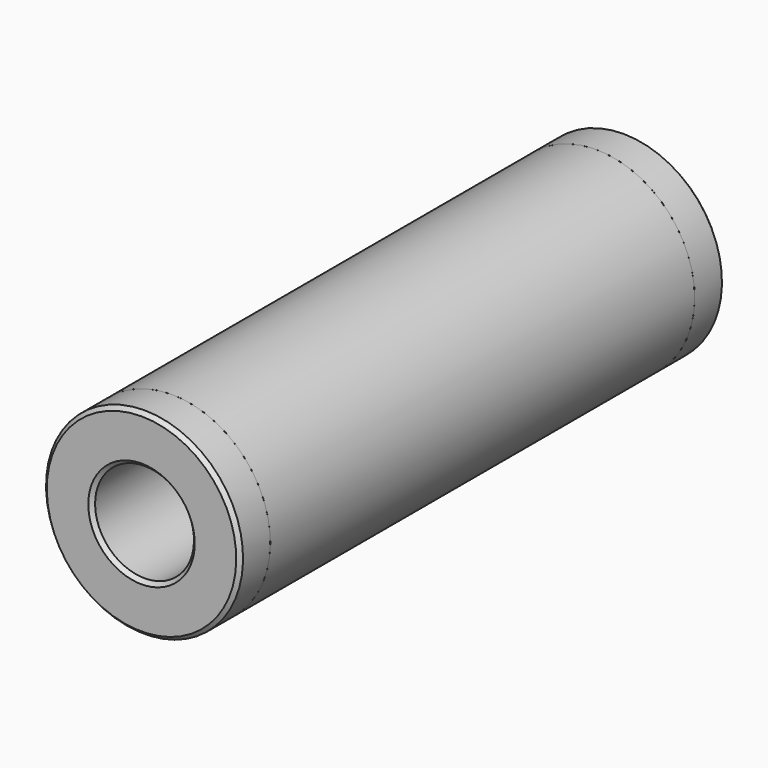
from build123d import *

# Parameters (mm, degrees)
F0_R      = 13
F0_R_2    = 9.5
F1_DEPTH  = 35
F6_SIZE   = 0.5
F6_2_SIZE = 0.5


with BuildPart() as f1:
    # F0 (on Front) → F1 (new body, symmetric)
    with BuildSketch(Plane.XZ):
        Circle(F0_R)
        Circle(F0_R_2, mode=Mode.SUBTRACT)
    extrude(amount=F1_DEPTH, both=True)


with BuildPart() as f3:
    # F2 (on Right) → F3 (revolve)
    with BuildSketch(Plane.YZ):
        Polygon((-40, 6.525), (-15, 6.525), (-15, 9.5), (-35, 9.5), (-35, 13), (-40, 13), align=None)
    revolve(axis=Axis((0, -23.343612, 0), (0, -1, 0)))

    # F6#2
    f6_2_edges = [f3.edges().sort_by_distance(p)[0] for p in [
        (0, -40, -13),
        (0, -40, -6.525),
    ]]
    chamfer(f6_2_edges, length=F6_2_SIZE)


with BuildPart() as f5:
    # F4 (on Right) → F5 (revolve)
    with BuildSketch(Plane.YZ):
        Polygon((35, 9.51), (20, 9.51), (20, 6.65), (40, 6.65), (40, 13), (35, 13), align=None)
    revolve(axis=Axis((0, 24.280891, 0), (0, 1, 0)))

    # F6
    f6_edges = [f5.edges().sort_by_distance(p)[0] for p in [
        (0, 40, -6.65),
        (0, 40, -13),
    ]]
    chamfer(f6_edges, length=F6_SIZE)


solid = Compound([f1.part, f3.part, f5.part])
